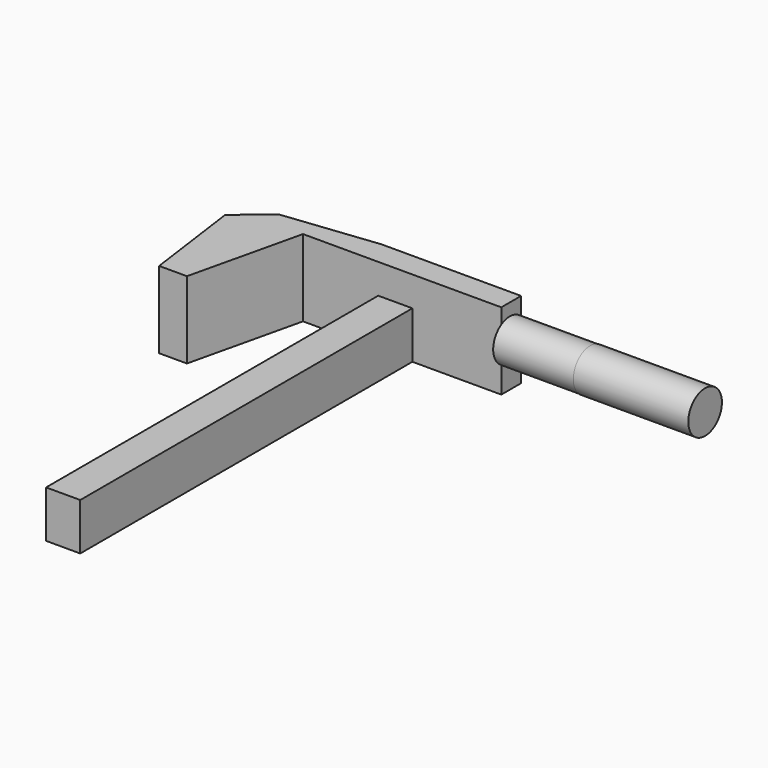
from build123d import *

# Parameters (mm, degrees)
F0_W     = 102.4136152118
F0_H     = 18.15164648
F1_DEPTH = 56.388
F2_W     = 25.0601731241
F2_H     = 34.5359966159
F3_DEPTH = 304.546
F4_R     = 15.2325553806
F5_DEPTH = 58.928
F6_R     = 15.4275535789
F7_DEPTH = 84.328


with BuildPart() as f1:
    # F0 (on Top) → F1 (new body)
    with BuildSketch(Plane.XY):
        with Locations((-20.018090494, 37.0683530346)):
            Rectangle(F0_W, F0_H)
        Polygon((-71.2248980999, 27.9925297946), (-71.2248980999, 46.1441762745), (-140.0751024485, 38.4146161377), (-163.9562547207, 18.7738258392), (-153.9280861616, -54.3515346944), (-133.5243433714, -54.3515346944), (-114.2685189843, 27.9925297946), align=None)
    extrude(amount=F1_DEPTH)

    # F2 (on face) → F3 (join)
    with BuildSketch(Plane.XZ.offset(-27.9925297946)):
        with Locations((-46.5627107769, 17.2679983079)):
            Rectangle(F2_W, F2_H)
    extrude(amount=F3_DEPTH)

    # F4 (on face) → F5 (join)
    with BuildSketch(Plane.YZ.offset(31.1887171119)):
        with Locations((35.7915498316, 32.1561060846)):
            Circle(F4_R)
    extrude(amount=F5_DEPTH)

    # F6 (on face) → F7 (join)
    with BuildSketch(Plane.YZ.offset(90.1167171119)):
        with Locations((35.7915498316, 32.1561060846)):
            Circle(F6_R)
    extrude(amount=F7_DEPTH)


solid = f1.part
